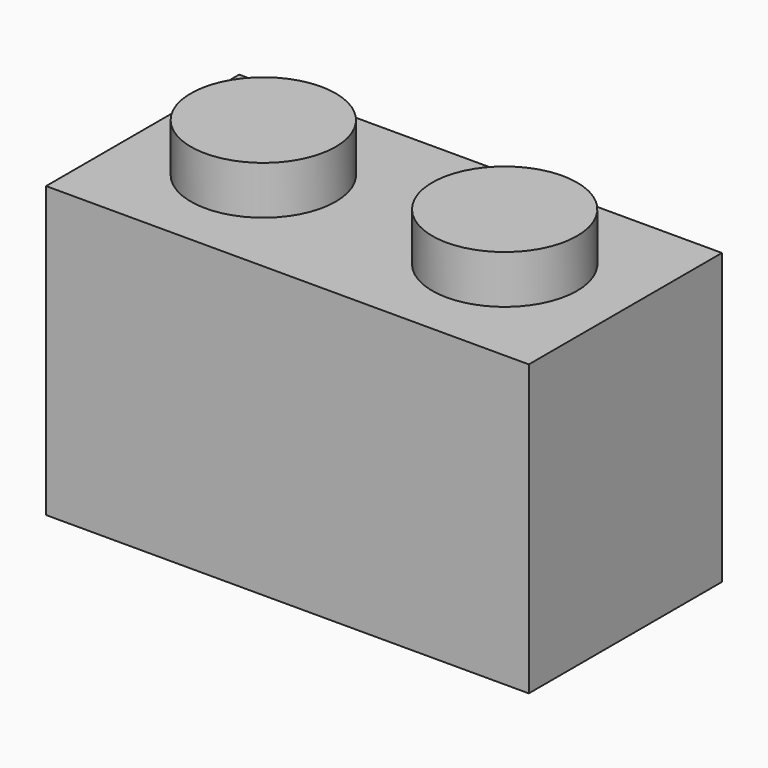
from build123d import *

# Parameters (mm, degrees)
F0_W     = 16
F0_H     = 8
F0_W_2   = 4.8
F0_H_2   = 4.8
F0_W_3   = 3.2
F1_DEPTH = 9.6
F2_DEPTH = 8
F3_DEPTH = 9.6
F4_R     = 1.6
F5_DEPTH = 1.6
F6_R     = 2.4
F6_R_2   = 1.6
F7_DEPTH = 1.6


with BuildPart() as f1:
    # F0 (on Top) → F1 (new body)
    with BuildSketch(Plane.XY):
        Rectangle(F0_W, F0_H)
        Polygon((-1.6, -2.4), (-6.4, -2.4), (-6.4, 2.4), (-1.6, 2.4), (1.6, 2.4), (6.4, 2.4), (6.4, -2.4), (1.6, -2.4), align=None, mode=Mode.SUBTRACT)
        with Locations((-4, 0)):
            Rectangle(F0_W_2, F0_H_2)
        Rectangle(F0_W_3, F0_H_2)
        with Locations((4, 0)):
            Rectangle(F0_W_2, F0_H_2)
    extrude(amount=F1_DEPTH)

    # F0 (on Top) → F2 (cut)
    with BuildSketch(Plane.XY):
        with Locations((-4, 0)):
            Rectangle(F0_W_2, F0_H_2)
        Rectangle(F0_W_3, F0_H_2)
        with Locations((4, 0)):
            Rectangle(F0_W_2, F0_H_2)
    extrude(amount=F2_DEPTH, mode=Mode.SUBTRACT)

    # F0 (on Top) → F3 (join)
    with BuildSketch(Plane.XY):
        Rectangle(F0_W_3, F0_H_2)
    extrude(amount=F3_DEPTH)

    # F4 (on face) → F5 (cut)
    with BuildSketch(Plane.XY.offset(9.6)):
        with Locations((-4, 0)):
            Circle(F4_R)
        with Locations((4, 0)):
            Circle(F4_R)
    extrude(amount=-F5_DEPTH, mode=Mode.SUBTRACT)

    # F6 (on face) → F7 (join)
    with BuildSketch(Plane.XY.offset(9.6)):
        with Locations((-4, 0)):
            Circle(F6_R)
        with Locations((-4, 0)):
            Circle(F6_R_2, mode=Mode.SUBTRACT)
        with Locations((4, 0)):
            Circle(F6_R)
        with Locations((4, 0)):
            Circle(F6_R_2, mode=Mode.SUBTRACT)
        with Locations((-4, 0)):
            Circle(F6_R_2)
        with Locations((4, 0)):
            Circle(F6_R_2)
    extrude(amount=F7_DEPTH)


solid = f1.part
